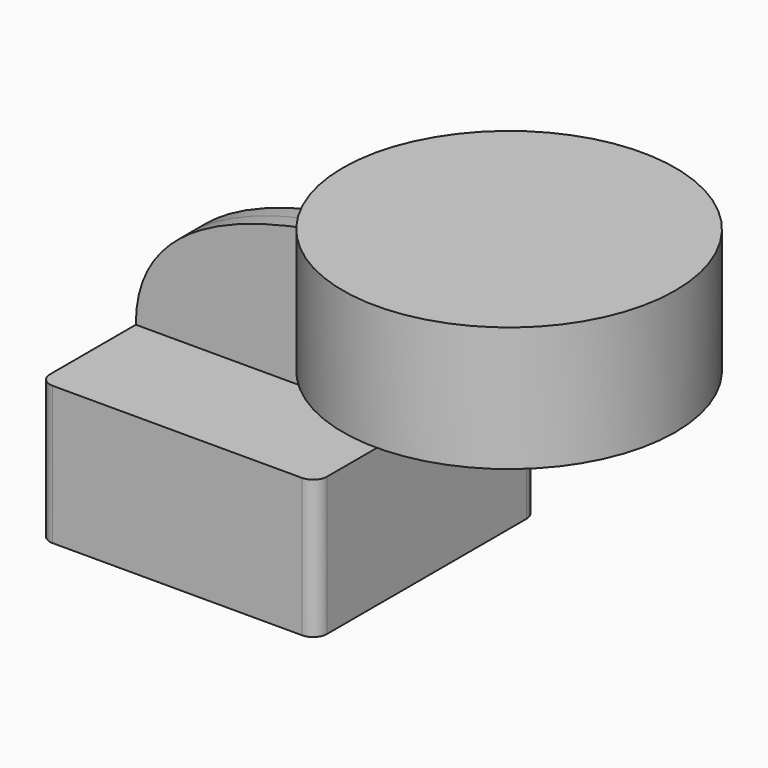
from build123d import *

# Parameters (mm, degrees)
F1_DEPTH = 63.5
F0_W     = 19.994952
F0_H     = 19.05
F2_DEPTH = 25.4
F3_DEPTH = 7.9375
F5_R     = 6.35


with BuildPart() as f1:
    # F0 (on Front) → F1 (new body, symmetric)
    with BuildSketch(Plane.XZ):
        Polygon((-127, 0), (0, 0), (0, 63.5), (-19.05, 63.5), (-127, 63.5), align=None)
    extrude(amount=F1_DEPTH, both=True)

    # F0 (on Front) → F2 (join, symmetric)
    with BuildSketch(Plane.XZ):
        with BuildLine():
            Line((-19.05, 63.5), (0, 63.5))
            Line((0, 63.5), (0, 98.425))
            ThreePointArc((0, 98.425), (4.64968, 109.65032), (15.875, 114.3))
            Line((15.875, 114.3), (37.741059, 114.3))
            Line((37.741059, 114.3), (37.741059, 133.35))
            Line((37.741059, 133.35), (15.875, 133.35))
            add(Edge.make_bspline(
                [(15.151937, 133.342514), (15.39375, 133.34518), (15.634775, 133.347673), (15.875, 133.35)],
                knots=[158.307474, 158.307474, 158.307474, 158.307474, 159.035493, 159.035493, 159.035493, 159.035493], degree=3))
            ThreePointArc((15.151937, 133.342514), (-9.075036, 122.863726), (-19.05, 98.425))
            Line((-19.05, 98.425), (-19.05, 63.5))
        make_face()
        with Locations((47.738535, 123.825)):
            Rectangle(F0_W, F0_H)
    extrude(amount=F2_DEPTH, both=True)

    # F0 (on Front) → F3 (join, symmetric)
    with BuildSketch(Plane.XZ):
        with BuildLine():
            add(Edge.make_bspline(
                [(-127, 63.5), (-127.275289, 124.073074), (-37.430264, 132.762938), (15.151937, 133.342514)],
                knots=[0, 0, 0, 0, 158.307474, 158.307474, 158.307474, 158.307474], degree=3))
            Line((-127, 63.5), (-19.05, 63.5))
            Line((-19.05, 63.5), (-19.05, 98.425))
            ThreePointArc((-19.05, 98.425), (-9.075036, 122.863726), (15.151937, 133.342514))
        make_face()
    extrude(amount=F3_DEPTH, both=True)

    # F0 (on Front) → F4 (revolve)
    with BuildSketch(Plane.XZ):
        Polygon((57.736011, 114.3), (37.741059, 114.3), (37.741059, 95.25), (113.941059, 95.25), (113.941059, 152.4), (37.741059, 152.4), (37.741059, 133.35), (57.736011, 133.35), align=None)
    revolve(axis=Axis((37.741059, 0, 123.825), (0, 0, 1)))

    # F5
    f5_edges = [f1.edges().sort_by_distance(p)[0] for p in [
        (-127, -63.5, 31.75),
        (0, -63.5, 31.75),
        (-127, 63.5, 31.75),
        (0, 63.5, 31.75),
    ]]
    fillet(f5_edges, radius=F5_R)


solid = f1.part
